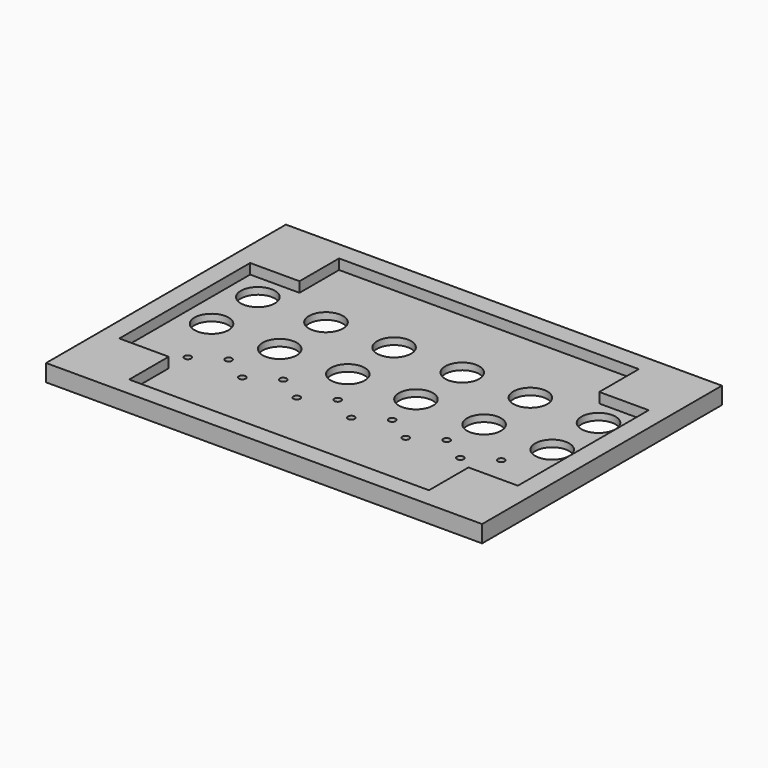
from build123d import *

# Parameters (mm, degrees)
F0_W     = 128
F0_H     = 88
F0_R     = 1
F0_R_2   = 5
F1_DEPTH = 2
F2_W     = 88
F2_H     = 5.5
F2_W_2   = 14.5
F2_H_2   = 14.5
F2_W_3   = 5.5
F2_H_3   = 48
F3_DEPTH = 3


with BuildPart() as f1:
    # F0 (on Top) → F1 (new body)
    with BuildSketch(Plane.XY):
        Rectangle(F0_W, F0_H)
        with Locations((-44, -17)):
            Circle(F0_R, mode=Mode.SUBTRACT)
        with Locations((-36, -12)):
            Circle(F0_R, mode=Mode.SUBTRACT)
        with Locations((-50.13162, -0.611308)):
            Circle(F0_R_2, mode=Mode.SUBTRACT)
        with Locations((-28, -17)):
            Circle(F0_R, mode=Mode.SUBTRACT)
        with Locations((-20, -12)):
            Circle(F0_R, mode=Mode.SUBTRACT)
        with Locations((-12, -17)):
            Circle(F0_R, mode=Mode.SUBTRACT)
        with Locations((-4, -12)):
            Circle(F0_R, mode=Mode.SUBTRACT)
        with Locations((-30.13162, -0.611308)):
            Circle(F0_R_2, mode=Mode.SUBTRACT)
        with Locations((-10.13162, -0.611308)):
            Circle(F0_R_2, mode=Mode.SUBTRACT)
        with Locations((4, -17)):
            Circle(F0_R, mode=Mode.SUBTRACT)
        with Locations((12, -12)):
            Circle(F0_R, mode=Mode.SUBTRACT)
        with Locations((20, -17)):
            Circle(F0_R, mode=Mode.SUBTRACT)
        with Locations((28, -12)):
            Circle(F0_R, mode=Mode.SUBTRACT)
        with Locations((9.86838, -0.611308)):
            Circle(F0_R_2, mode=Mode.SUBTRACT)
        with Locations((29.86838, -0.611308)):
            Circle(F0_R_2, mode=Mode.SUBTRACT)
        with Locations((36, -17)):
            Circle(F0_R, mode=Mode.SUBTRACT)
        with Locations((44, -12)):
            Circle(F0_R, mode=Mode.SUBTRACT)
        with Locations((49.86838, -0.611308)):
            Circle(F0_R_2, mode=Mode.SUBTRACT)
        with Locations((-50.140649, 16.38869)):
            Circle(F0_R_2, mode=Mode.SUBTRACT)
        with Locations((-30.140649, 16.38869)):
            Circle(F0_R_2, mode=Mode.SUBTRACT)
        with Locations((-10.140649, 16.38869)):
            Circle(F0_R_2, mode=Mode.SUBTRACT)
        with Locations((9.859351, 16.38869)):
            Circle(F0_R_2, mode=Mode.SUBTRACT)
        with Locations((29.859351, 16.38869)):
            Circle(F0_R_2, mode=Mode.SUBTRACT)
        with Locations((49.859351, 16.38869)):
            Circle(F0_R_2, mode=Mode.SUBTRACT)
    extrude(amount=F1_DEPTH)

    # F2 (on face) → F3 (join)
    with BuildSketch(Plane.XY.offset(2)):
        with Locations((0, 41.25)):
            Rectangle(F2_W, F2_H)
        Polygon((-44, 38.5), (-44, 44), (-64, 44), (-64, 24), (-58.5, 24), (-58.5, 38.5), align=None)
        with Locations((-51.25, 31.25)):
            Rectangle(F2_W_2, F2_H_2)
        with Locations((-61.25, 0)):
            Rectangle(F2_W_3, F2_H_3)
        Polygon((-58.5, -24), (-64, -24), (-64, -44), (-44, -44), (-44, -38.5), (-58.5, -38.5), align=None)
        with Locations((-51.25, -31.25)):
            Rectangle(F2_W_2, F2_H_2)
        with Locations((0, -41.25)):
            Rectangle(F2_W, F2_H)
        Polygon((64, -44), (64, -24), (58.5, -24), (58.5, -38.5), (44, -38.5), (44, -44), align=None)
        with Locations((51.25, -31.25)):
            Rectangle(F2_W_2, F2_H_2)
        with Locations((61.25, 0)):
            Rectangle(F2_W_3, F2_H_3)
        Polygon((64, 44), (44, 44), (44, 38.5), (58.5, 38.5), (58.5, 24), (64, 24), align=None)
        with Locations((51.25, 31.25)):
            Rectangle(F2_W_2, F2_H_2)
    extrude(amount=F3_DEPTH)


solid = f1.part
